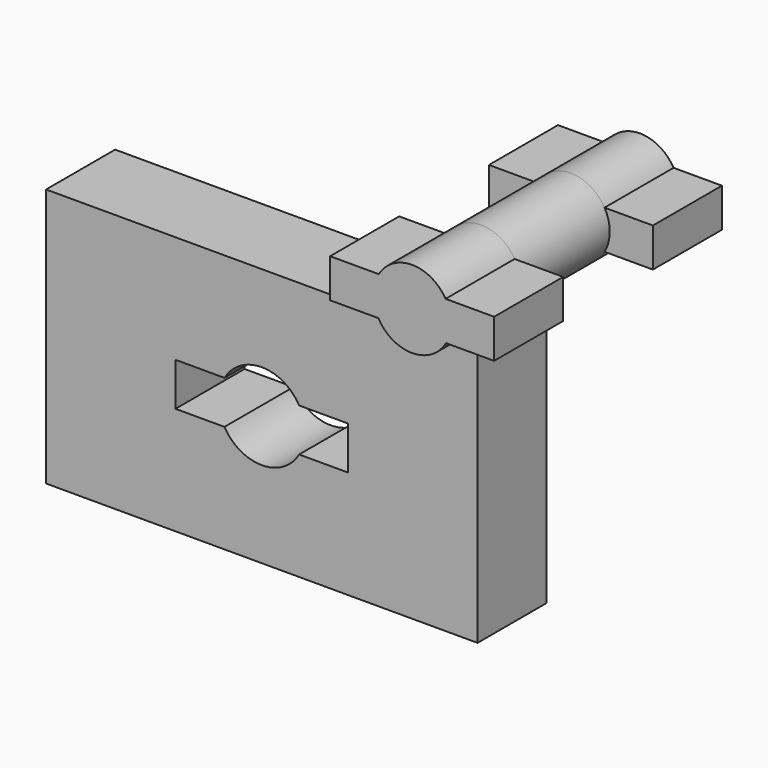
from build123d import *

# Parameters (mm, degrees)
F0_W     = 127
F0_H     = 76.2
F1_DEPTH = 25.4
F2_DEPTH = 25.4
F4_DEPTH = 25.4
F5_R     = 11.43
F6_DEPTH = 33.02
F8_DEPTH = 25.4


with BuildPart() as f1:
    # F0 (on Front) → F1 (new body)
    with BuildSketch(Plane.XZ):
        with Locations((-63.5, -38.1)):
            Rectangle(F0_W, F0_H)
        with BuildLine():
            ThreePointArc((-74.4985226281, -31.75), (-63.5, -25.4), (-52.5014773719, -31.75))
            Line((-52.5014773719, -31.75), (-38.1, -31.75))
            Line((-38.1, -31.75), (-38.1, -44.45))
            Line((-38.1, -44.45), (-52.5014773719, -44.45))
            ThreePointArc((-52.5014773719, -44.45), (-63.5, -50.8), (-74.4985226281, -44.45))
            Line((-74.4985226281, -44.45), (-88.9, -44.45))
            Line((-88.9, -44.45), (-88.9, -31.75))
            Line((-88.9, -31.75), (-74.4985226281, -31.75))
        make_face(mode=Mode.SUBTRACT)
    extrude(amount=F1_DEPTH)

    # F0 (on Front) → F2 (join)
    with BuildSketch(Plane.XZ):
        with Locations((-63.5, -38.1)):
            Rectangle(F0_W, F0_H)
        with BuildLine():
            ThreePointArc((-74.4985226281, -31.75), (-63.5, -25.4), (-52.5014773719, -31.75))
            Line((-52.5014773719, -31.75), (-38.1, -31.75))
            Line((-38.1, -31.75), (-38.1, -44.45))
            Line((-38.1, -44.45), (-52.5014773719, -44.45))
            ThreePointArc((-52.5014773719, -44.45), (-63.5, -50.8), (-74.4985226281, -44.45))
            Line((-74.4985226281, -44.45), (-88.9, -44.45))
            Line((-88.9, -44.45), (-88.9, -31.75))
            Line((-88.9, -31.75), (-74.4985226281, -31.75))
        make_face(mode=Mode.SUBTRACT)
    extrude(amount=F2_DEPTH)


with BuildPart() as f4:
    # F3 (on Front) → F4 (new body)
    with BuildSketch(Plane.XZ):
        with BuildLine():
            ThreePointArc((37.3822628393, 48.7436810958), (38.5241246685, 45.9869827814), (38.913592474, 43.0286810958))
            ThreePointArc((38.913592474, 43.0286810958), (38.5241246685, 40.0703794103), (37.3822628393, 37.3136810958))
            Line((37.3822628393, 37.3136810958), (51.613592474, 37.3136810958))
            Line((51.613592474, 37.3136810958), (51.613592474, 48.7436810958))
            Line((51.613592474, 48.7436810958), (37.3822628393, 48.7436810958))
        make_face()
        with BuildLine():
            Line((17.5849221088, 48.7436810958), (37.3822628393, 48.7436810958))
            ThreePointArc((37.3822628393, 48.7436810958), (27.483592474, 54.4586810958), (17.5849221088, 48.7436810958))
        make_face()
        with BuildLine():
            ThreePointArc((17.5849221088, 37.3136810958), (27.483592474, 31.5986810958), (37.3822628393, 37.3136810958))
            Line((37.3822628393, 37.3136810958), (17.5849221088, 37.3136810958))
        make_face()
        with BuildLine():
            ThreePointArc((37.3822628393, 37.3136810958), (38.5241246685, 40.0703794103), (38.913592474, 43.0286810958))
            ThreePointArc((38.913592474, 43.0286810958), (38.5241246685, 45.9869827814), (37.3822628393, 48.7436810958))
            Line((37.3822628393, 48.7436810958), (17.5849221088, 48.7436810958))
            ThreePointArc((17.5849221088, 48.7436810958), (16.053592474, 43.0286810958), (17.5849221088, 37.3136810958))
            Line((17.5849221088, 37.3136810958), (37.3822628393, 37.3136810958))
        make_face()
        with BuildLine():
            ThreePointArc((17.5849221088, 37.3136810958), (16.053592474, 43.0286810958), (17.5849221088, 48.7436810958))
            Line((17.5849221088, 48.7436810958), (3.353592474, 48.7436810958))
            Line((3.353592474, 48.7436810958), (3.353592474, 37.3136810958))
            Line((3.353592474, 37.3136810958), (17.5849221088, 37.3136810958))
        make_face()
    extrude(amount=F4_DEPTH)

    # F5 (on face) → F6 (join)
    with BuildSketch(Plane.XZ.offset(25.4)):
        with Locations((27.483592474, 43.0286810958)):
            Circle(F5_R)
    extrude(amount=F6_DEPTH)

    # F7 (on face) → F8 (join)
    with BuildSketch(Plane.XZ.offset(58.42)):
        with BuildLine():
            Line((51.613592474, 48.845155419), (37.3229789614, 48.845155419))
            ThreePointArc((37.3229789614, 48.845155419), (38.5087701948, 46.0437028577), (38.913592474, 43.0286810958))
            ThreePointArc((38.913592474, 43.0286810958), (38.5390993046, 40.1268422444), (37.4401596272, 37.415155419))
            Line((37.4401596272, 37.415155419), (51.613592474, 37.415155419))
            Line((51.613592474, 37.415155419), (51.613592474, 48.845155419))
        make_face()
        with BuildLine():
            ThreePointArc((17.5270253208, 37.415155419), (16.0541930963, 43.1458556041), (17.6442059867, 48.845155419))
            Line((17.6442059867, 48.845155419), (3.353592474, 48.845155419))
            Line((3.353592474, 48.845155419), (3.353592474, 37.415155419))
            Line((3.353592474, 37.415155419), (17.5270253208, 37.415155419))
        make_face()
        with BuildLine():
            ThreePointArc((38.913592474, 43.0286810958), (38.5087701948, 46.0437028577), (37.3229789614, 48.845155419))
            ThreePointArc((37.3229789614, 48.845155419), (27.483592474, 54.4586810958), (17.6442059867, 48.845155419))
            ThreePointArc((17.6442059867, 48.845155419), (16.0541930963, 43.1458556041), (17.5270253208, 37.415155419))
            ThreePointArc((17.5270253208, 37.415155419), (27.483592474, 31.5986810958), (37.4401596272, 37.415155419))
            ThreePointArc((37.4401596272, 37.415155419), (38.5390993046, 40.1268422444), (38.913592474, 43.0286810958))
        make_face()
    extrude(amount=F8_DEPTH)


solid = Compound([f1.part, f4.part])
